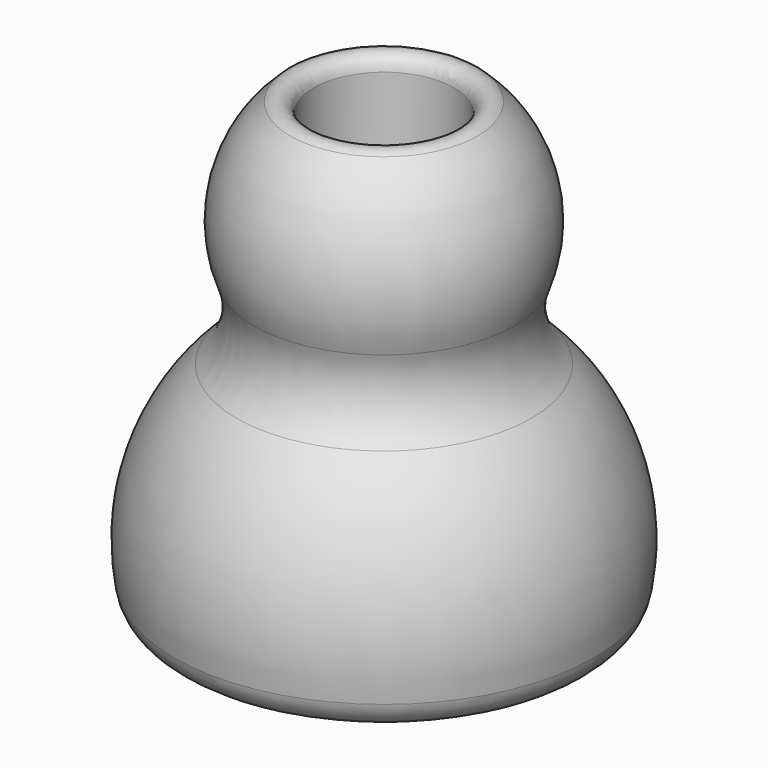
from build123d import *

# Parameters (mm, degrees)
F2_R     = 6.35
F3_DEPTH = 38.101
F4_R     = 1.27


with BuildPart() as f1:
    # F0 (on Front) → F1 (revolve)
    with BuildSketch(Plane.XZ):
        with BuildLine():
            ThreePointArc((0, 19.304), (4.856384, 18.683146), (9.400387, 16.86052))
            ThreePointArc((9.400387, 16.86052), (10.802326, 18.721696), (11.840633, 20.80768))
            ThreePointArc((11.840633, 20.80768), (10.478847, 32.575219), (0, 38.1))
            Line((0, 38.1), (0, 19.304))
        make_face()
        with BuildLine():
            ThreePointArc((1.800446, 12.82827), (10.479293, 7.615152), (12.7572, -2.249438))
            ThreePointArc((12.7572, -2.249438), (15.332631, -5.927536), (19.010729, -3.352104))
            ThreePointArc((19.010729, -3.352104), (18.349518, 5.994964), (13.364675, 13.929461))
            ThreePointArc((13.364675, 13.929461), (11.476489, 15.522069), (9.400387, 16.86052))
            ThreePointArc((9.400387, 16.86052), (5.952262, 14.18124), (1.800446, 12.82827))
        make_face()
        with BuildLine():
            ThreePointArc((0, 12.954), (0.902415, 12.922529), (1.800446, 12.82827))
            ThreePointArc((1.800446, 12.82827), (5.952262, 14.18124), (9.400387, 16.86052))
            ThreePointArc((9.400387, 16.86052), (4.856384, 18.683146), (0, 19.304))
            Line((0, 19.304), (0, 12.954))
        make_face()
        with BuildLine():
            ThreePointArc((11.840633, 20.80768), (10.802326, 18.721696), (9.400387, 16.86052))
            ThreePointArc((9.400387, 16.86052), (11.476489, 15.522069), (13.364675, 13.929461))
            ThreePointArc((13.364675, 13.929461), (11.561314, 17.137835), (11.840633, 20.80768))
        make_face()
    revolve(axis=Axis((0, 0, 0.091855), (0, 0, -1)))

    # F2 (on Top) → F3 (cut, through all)
    with BuildSketch(Plane.XY):
        Circle(F2_R)
    extrude(amount=F3_DEPTH, mode=Mode.SUBTRACT)

    # F4
    f4_edges = [f1.edges().sort_by_distance(p)[0] for p in [
        (-6.35, 0, 36.398523),
        (-6.35, 0, 11.290864),
    ]]
    fillet(f4_edges, radius=F4_R)


solid = f1.part
